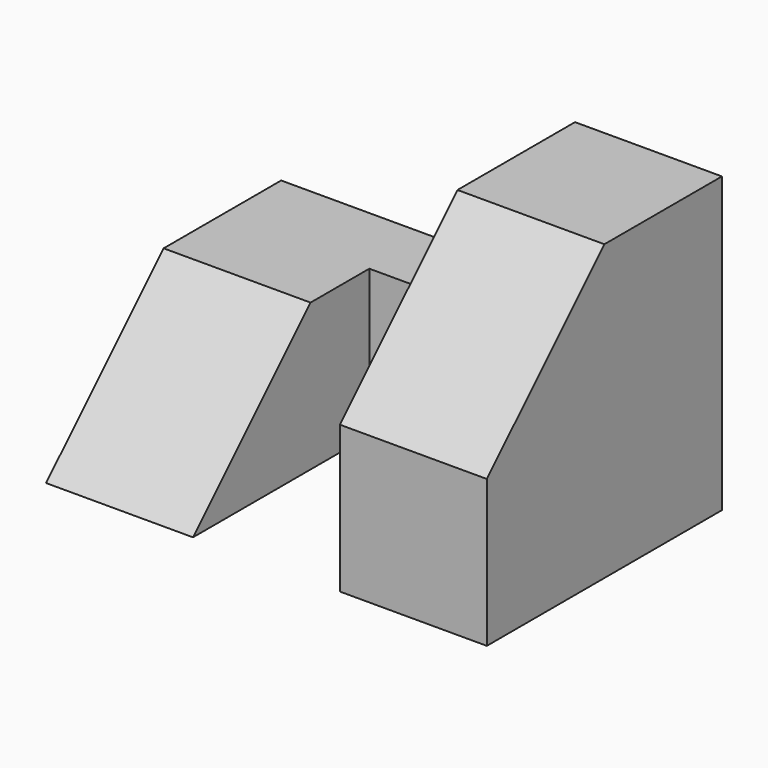
from build123d import *

# Parameters (mm, degrees)
F0_W     = 25.4
F0_H     = 25.4
F1_DEPTH = 12.7
F3_DEPTH = 12.701
F5_DEPTH = 12.7
F7_DEPTH = 12.7


with BuildPart() as f1:
    # F0 (on Right) → F1 (new body)
    with BuildSketch(Plane.YZ):
        with Locations((12.7, 12.7)):
            Rectangle(F0_W, F0_H)
    extrude(amount=F1_DEPTH)

    # F2 (on face) → F3 (cut, through all)
    with BuildSketch(Plane.YZ.offset(12.7)):
        Polygon((0, 12.7), (12.7, 25.4), (0, 25.4), align=None)
    extrude(amount=-F3_DEPTH, mode=Mode.SUBTRACT)

    # F4 (on Top) → F5 (join)
    with BuildSketch(Plane.XY):
        Polygon((0, 19.05), (0, 25.4), (-25.4, 25.4), (-25.4, 0), (-12.7, 0), (-12.7, 19.05), align=None)
    extrude(amount=F5_DEPTH)

    # F6 (on face) → F7 (cut)
    with BuildSketch(Plane(origin=(-25.4, 0, 0), x_dir=(0, -1, 0), z_dir=(-1, 0, 0))):
        Polygon((0, 12.7), (-12.7, 12.7), (0, 0), align=None)
    extrude(amount=-F7_DEPTH, mode=Mode.SUBTRACT)


solid = f1.part
